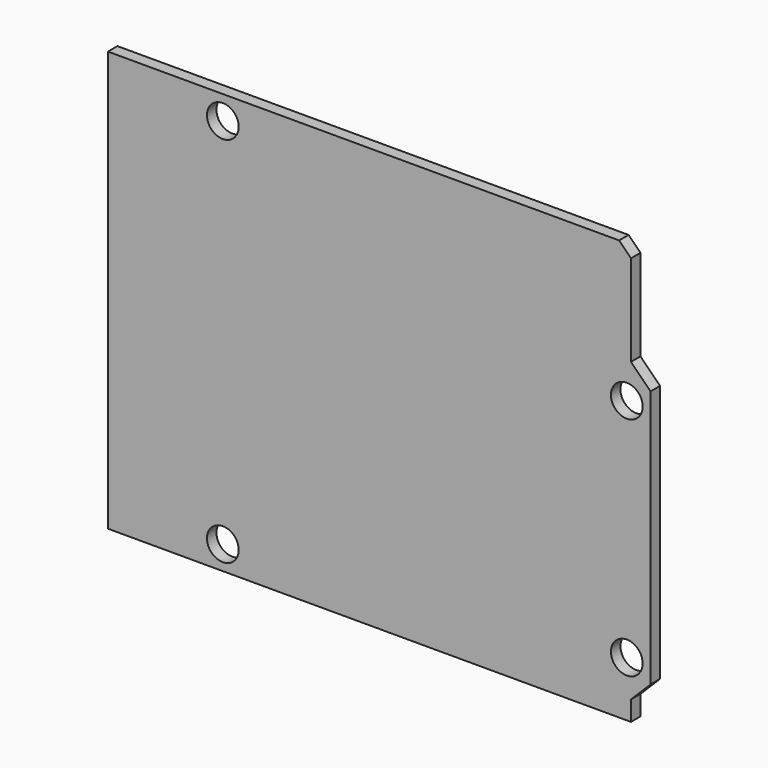
from build123d import *

# Parameters (mm, degrees)
F0_R     = 2
F1_DEPTH = 1.5


with BuildPart() as f1:
    # F0 (on Front) → F1 (new body)
    with BuildSketch(Plane.XZ):
        Polygon((0, 53), (0, 0), (66, 0), (66, 2.5), (68.474874, 4.974874), (68.474874, 37.525126), (66, 40), (66, 49.5), (66, 51.5), (64.5, 53), align=None)
        with Locations((14.5, 3)):
            Circle(F0_R, mode=Mode.SUBTRACT)
        with Locations((65.474874, 6.980275)):
            Circle(F0_R, mode=Mode.SUBTRACT)
        with Locations((14.5, 50)):
            Circle(F0_R, mode=Mode.SUBTRACT)
        with Locations((65.474874, 35.50862)):
            Circle(F0_R, mode=Mode.SUBTRACT)
    extrude(amount=F1_DEPTH)


solid = f1.part
